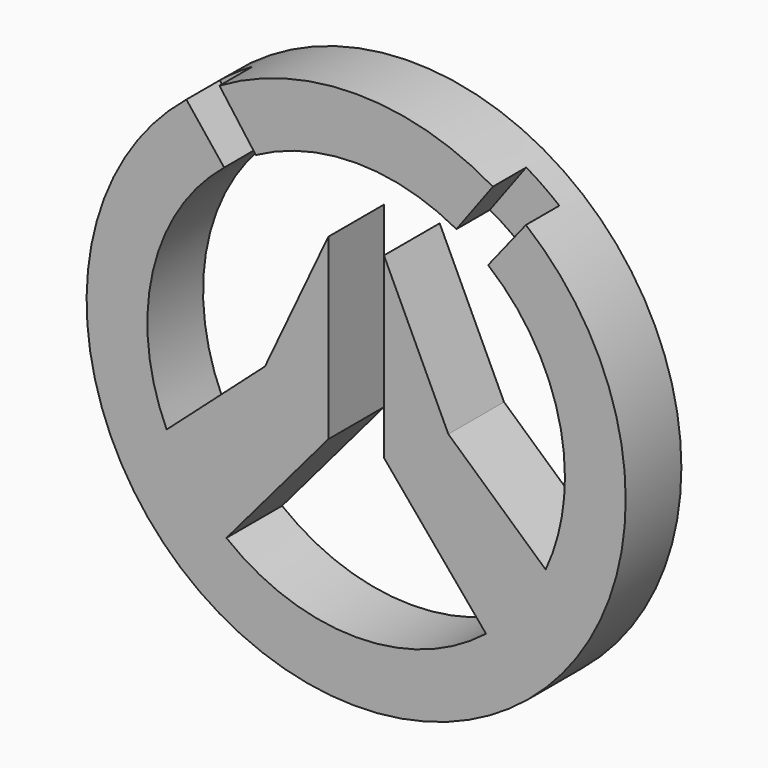
from build123d import *

# Parameters (mm, degrees)
F0_R     = 12.298001529
F1_DEPTH = 3.175
F3_DEPTH = 1.905


with BuildPart() as f1:
    # F0 (on Front) → F1 (new body)
    with BuildSketch(Plane.XZ):
        Circle(F0_R)
        with BuildLine():
            ThreePointArc((-8.6462462248, -3.9960044069), (-2.0457431057, 9.3027178903), (9.525, 0))
            ThreePointArc((9.525, 0), (9.3027178903, -2.0457431057), (8.6462462248, -3.9960044069))
            ThreePointArc((8.6462462248, -3.9960044069), (7.4881945006, -5.8866431963), (5.9244254269, -7.4583381769))
            ThreePointArc((5.9244254269, -7.4583381769), (0.0029631187, -9.5249995391), (-5.9197838727, -7.4620227754))
            ThreePointArc((-5.9197838727, -7.4620227754), (-7.4863628708, -5.8889724033), (-8.6462462248, -3.9960044069))
        make_face(mode=Mode.SUBTRACT)
        with BuildLine():
            ThreePointArc((5.9244254269, -7.4583381769), (7.4881945006, -5.8866431963), (8.6462462248, -3.9960044069))
            Line((8.6462462248, -3.9960044069), (4.205819685, 0))
            Line((4.205819685, 0), (1.27, 6.223205477))
            Line((1.27, 6.223205477), (1.27, 2.6581143029))
            Line((1.27, 2.6581143029), (1.27, -1.9093884621))
            Line((1.27, -1.9093884621), (5.9244254269, -7.4583381769))
        make_face()
        with BuildLine():
            Line((-4.1599088036, 0), (-8.6462462248, -3.9960044069))
            ThreePointArc((-8.6462462248, -3.9960044069), (-7.4863628708, -5.8889724033), (-5.9197838727, -7.4620227754))
            Line((-5.9197838727, -7.4620227754), (-1.27, -1.983646679))
            Line((-1.27, -1.983646679), (-1.27, 2.583856086))
            Line((-1.27, 2.583856086), (-1.27, 6.1489472601))
            Line((-1.27, 6.1489472601), (-4.1599088036, 0))
        make_face()
    extrude(amount=F1_DEPTH)

    # F2 (on face) → F3 (cut)
    with BuildSketch(Plane.XZ.offset(3.175)):
        with BuildLine():
            ThreePointArc((-6.0207857573, 7.3807698693), (-5.3208236586, 7.9002823111), (-4.5762988988, 8.3536287558))
            Line((-4.5762988988, 8.3536287558), (-6.2365389931, 10.5993595559))
            ThreePointArc((-6.2365389931, 10.5993595559), (-7.0104333877, 10.1041904834), (-7.7452011718, 9.5526279325))
            Line((-7.7452011718, 9.5526279325), (-6.0207857573, 7.3807698693))
        make_face()
        with BuildLine():
            Line((6.2365389931, 10.5993595559), (4.5762988988, 8.3536287558))
            ThreePointArc((4.5762988988, 8.3536287558), (5.3208236586, 7.9002823111), (6.0207857573, 7.3807698693))
            Line((6.0207857573, 7.3807698693), (7.7452011718, 9.5526279325))
            ThreePointArc((7.7452011718, 9.5526279325), (7.0104333877, 10.1041904834), (6.2365389931, 10.5993595559))
        make_face()
    extrude(amount=-F3_DEPTH, mode=Mode.SUBTRACT)


solid = f1.part
